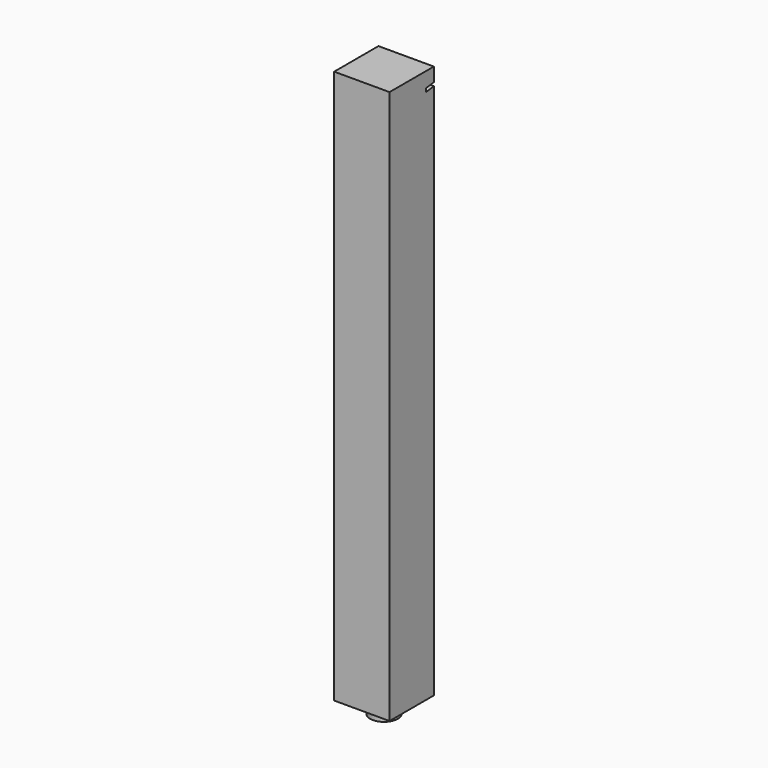
from build123d import *

# Parameters (mm, degrees)
F0_R     = 25.4
F1_DEPTH = 25.4
F2_W     = 101.6
F2_H     = 101.6
F3_DEPTH = 1016
F5_DEPTH = 101.6


with BuildPart() as f1:
    # F0 (on Top) → F1 (new body)
    with BuildSketch(Plane.XY):
        Circle(F0_R)
    extrude(amount=F1_DEPTH)

    # F2 (on face) → F3 (join)
    with BuildSketch(Plane.XY.offset(25.4)):
        Rectangle(F2_W, F2_H)
    extrude(amount=F3_DEPTH)

    # F4 (on face) → F5 (cut)
    with BuildSketch(Plane(origin=(-50.8, 0, 0), x_dir=(0, -1, 0), z_dir=(-1, 0, 0))):
        Polygon((-33.154695, 1013.8156), (-50.8, 1016), (-50.8, 1009.65), (-33.154695, 1007.4656), align=None)
    extrude(amount=-F5_DEPTH, mode=Mode.SUBTRACT)


solid = f1.part
